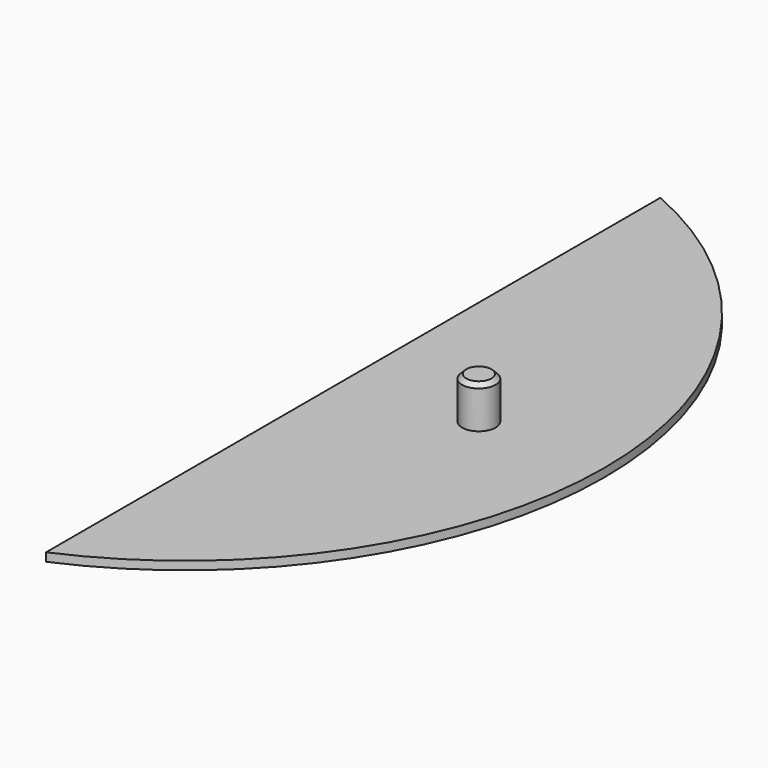
from build123d import *

# Parameters (mm, degrees)
F1_DEPTH = 2
F2_R     = 4
F3_DEPTH = 10
F4_SIZE  = 1


with BuildPart() as f1:
    # F0 (on Top) → F1 (new body)
    with BuildSketch(Plane.XY):
        with BuildLine():
            Line((40, 91.651514), (40, -91.651514))
            ThreePointArc((40, -91.651514), (100, 0), (40, 91.651514))
        make_face()
    extrude(amount=F1_DEPTH)

    # F2 (on face) → F3 (join)
    with BuildSketch(Plane.XY.offset(2)):
        with Locations((70, 0)):
            Circle(F2_R)
    extrude(amount=F3_DEPTH)

    # F4
    f4_edges = [f1.edges().sort_by_distance(p)[0] for p in [
        (66, 0, 12),
    ]]
    chamfer(f4_edges, length=F4_SIZE)


solid = f1.part
